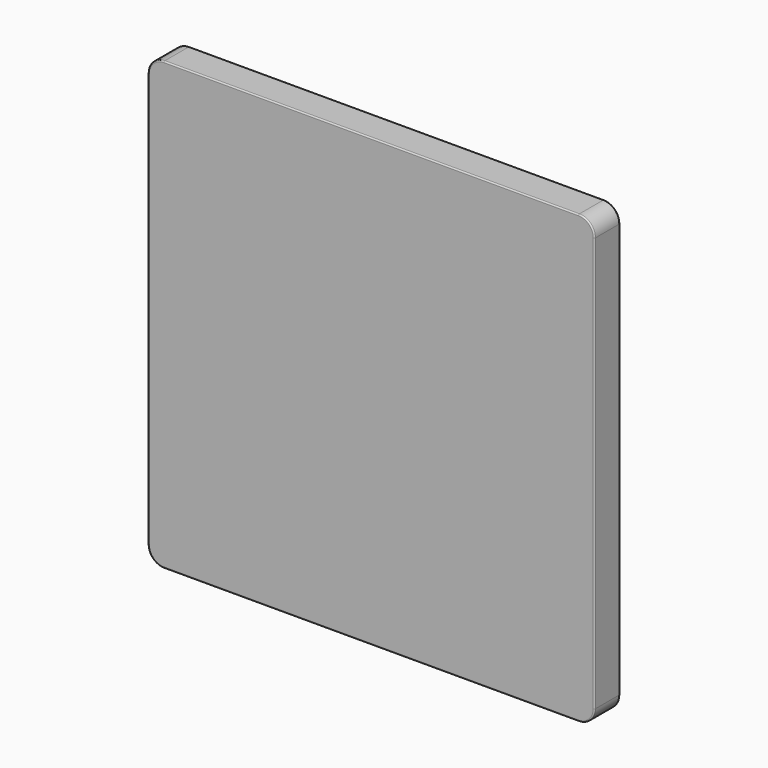
from build123d import *

# Parameters (mm, degrees)
F0_W     = 700
F0_H     = 700
F1_DEPTH = 50
F2_R     = 25
F3_R     = 2


with BuildPart() as f1:
    # F0 (on Front) → F1 (new body)
    with BuildSketch(Plane.XZ):
        Rectangle(F0_W, F0_H)
    extrude(amount=F1_DEPTH)

    # F2
    f2_edges = [f1.edges().sort_by_distance(p)[0] for p in [
        (-350, -25, 350),
        (-350, -25, -350),
        (350, -25, -350),
        (350, -25, 350),
    ]]
    fillet(f2_edges, radius=F2_R)

    # F3
    f3_edges = [f1.edges().sort_by_distance(p)[0] for p in [
        (350, -50, 0),
        (0, -50, 350),
        (-350, -50, 0),
        (-342.67767, -50, 342.67767),
        (-342.67767, -50, -342.67767),
        (0, -50, -350),
        (342.67767, -50, -342.67767),
        (342.67767, -50, 342.67767),
        (0, 0, 350),
        (342.67767, 0, 342.67767),
        (350, 0, 0),
        (342.67767, 0, -342.67767),
        (0, 0, -350),
        (-342.67767, 0, -342.67767),
        (-350, 0, 0),
        (-342.67767, 0, 342.67767),
    ]]
    fillet(f3_edges, radius=F3_R)


solid = f1.part
